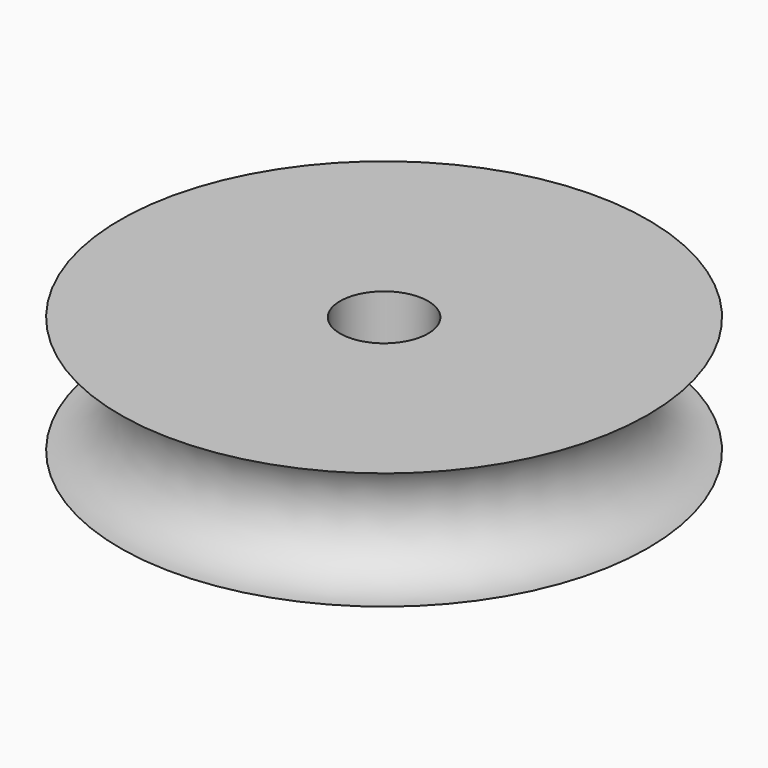
from build123d import *


with BuildPart() as part:
    # Sketch → Revolution (revolve)
    with BuildSketch(Plane.XZ):
        with BuildLine():
            Line((1.5, 0), (9, 0))
            ThreePointArc((9, 4), (7.000016, 2), (9, 0))
            Line((9, 4), (1.5, 4))
            Line((1.5, 4), (1.5, 0))
        make_face()
    revolve(axis=Axis((0, 0, 0), (0, 0, 1)))


solid = part.part
